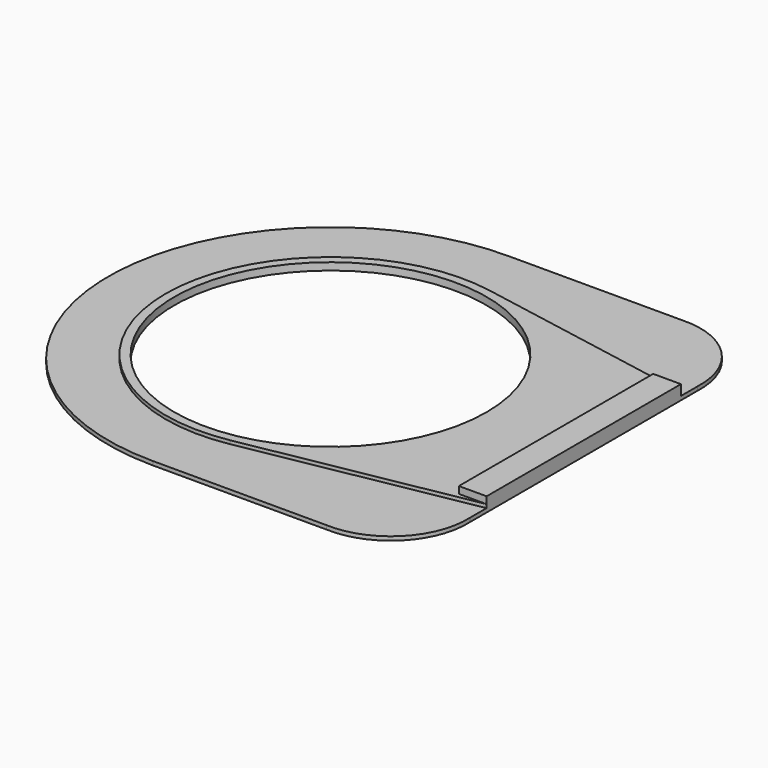
from build123d import *

# Parameters (mm, degrees)
SKETCH001_R  = 45
PAD_DEPTH    = 1.12
SKETCH_W     = 8
SKETCH_H     = 70
PAD003_DEPTH = 3
SKETCH024_R  = 45
PAD006_DEPTH = 1


with BuildPart() as part:
    # Sketch001 → Pad (new body)
    with BuildSketch(Plane.XY):
        with BuildLine():
            Line((50, 64), (0, 64))
            ThreePointArc((0, 64), (-64.000064, 0), (0, -64))
            Line((50, -64), (0, -64))
            ThreePointArc((50, -64), (66.580186, -57.580186), (73, -41))
            Line((73, 41), (73, -41))
            ThreePointArc((73, 41), (66.580186, 57.580186), (50, 64))
        make_face()
        Circle(SKETCH001_R, mode=Mode.SUBTRACT)
    extrude(amount=-PAD_DEPTH)

    # Sketch → Pad003 (new body)
    with BuildSketch(Plane.XY):
        with Locations((69, 0)):
            Rectangle(SKETCH_W, SKETCH_H)
    extrude(amount=PAD003_DEPTH)

    # Sketch024 → Pad006 (new body)
    with BuildSketch(Plane.XY):
        with BuildLine():
            ThreePointArc((8.501021, 46.7331), (-47.5, 0), (8.501021, -46.7331))
            Line((8.501021, -46.7331), (73, -35))
            Line((73, 35), (73, -35))
            Line((8.501021, 46.7331), (73, 35))
        make_face()
        Circle(SKETCH024_R, mode=Mode.SUBTRACT)
    extrude(amount=PAD006_DEPTH)


solid = part.part
